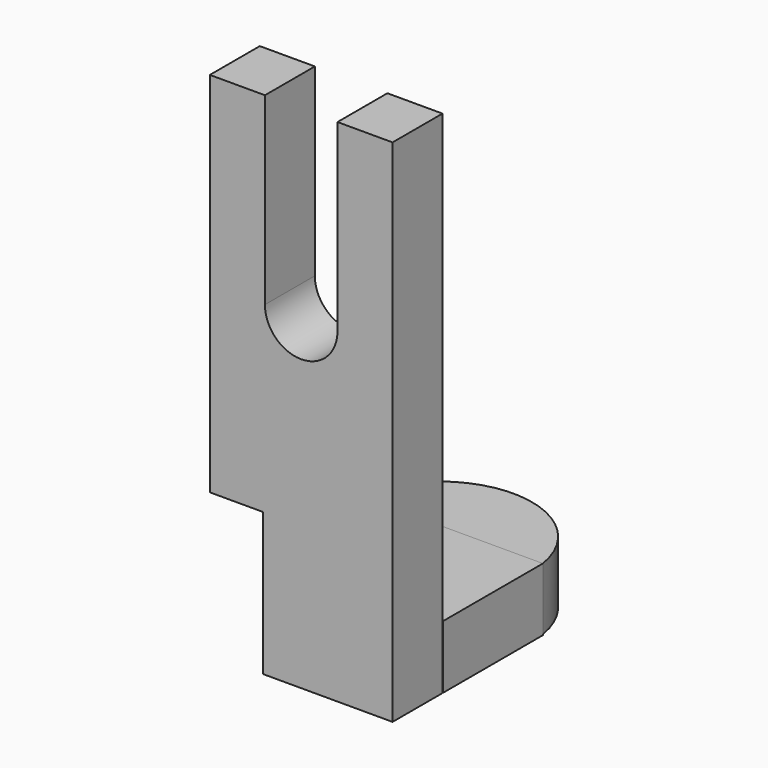
from build123d import *

# Parameters (mm, degrees)
F1_DEPTH = 12.7
F2_W     = 37.410021
F2_H     = 12.850769
F3_DEPTH = 25.4
F5_DEPTH = 12.7
F6_W     = 24.274406
F6_H     = 38.353206
F7_DEPTH = 25.4


with BuildPart() as f1:
    # F0 (on Front) → F1 (new body)
    with BuildSketch(Plane.XZ):
        with BuildLine():
            Line((-7.381638, 51.91648), (-18.590778, 51.91648))
            Line((-18.590778, 51.91648), (-18.590778, -51.91648))
            Line((-18.590778, -51.91648), (18.590778, -51.91648))
            Line((18.590778, -51.91648), (18.590778, 51.91648))
            Line((18.590778, 51.91648), (7.381638, 51.91648))
            Line((7.381638, 51.91648), (7.381638, 14.398374))
            ThreePointArc((7.381638, 14.398374), (0, 7.016736), (-7.381638, 14.398374))
            Line((-7.381638, 14.398374), (-7.381638, 51.91648))
        make_face()
    extrude(amount=F1_DEPTH)

    # F2 (on Front) → F3 (join)
    with BuildSketch(Plane.XZ):
        with Locations((-1e-06, -45.406054)):
            Rectangle(F2_W, F2_H)
    extrude(amount=-F3_DEPTH)

    # F4 (on face) → F5 (join)
    with BuildSketch(Plane.XY.offset(-38.98067)):
        with BuildLine():
            Line((-18.705012, 25.4), (18.705009, 25.4))
            ThreePointArc((18.705009, 25.4), (-2e-06, 41.284719), (-18.705012, 25.4))
        make_face()
    extrude(amount=-F5_DEPTH)

    # F6 (on face) → F7 (cut)
    with BuildSketch(Plane.XZ.offset(12.7)):
        with Locations((-19.93384, -42.053408)):
            Rectangle(F6_W, F6_H)
    extrude(amount=-F7_DEPTH, mode=Mode.SUBTRACT)


solid = f1.part
